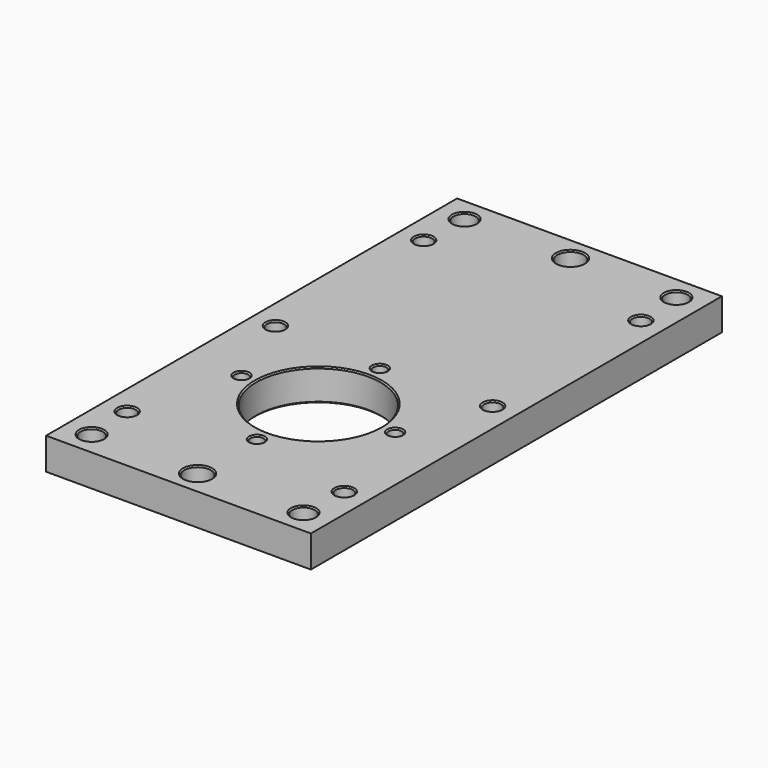
from build123d import *

# Parameters (mm, degrees)
F0_W     = 100
F0_H     = 194
F0_R     = 4.25
F0_R_2   = 2.5
F0_R_3   = 5
F0_R_4   = 23.5
F1_DEPTH = 12
F2_SIZE  = 0.5
F3_R     = 3.25
F4_DEPTH = 25
F5_SIZE  = 0.5


with BuildPart() as f1:
    # F0 (on Top) → F1 (new body)
    with BuildSketch(Plane.XY):
        with Locations((0, 31)):
            Rectangle(F0_W, F0_H)
        with Locations((-40, -57)):
            Circle(F0_R, mode=Mode.SUBTRACT)
        with Locations((-29, 0)):
            Circle(F0_R_2, mode=Mode.SUBTRACT)
        with Locations((0, -57)):
            Circle(F0_R_3, mode=Mode.SUBTRACT)
        with Locations((0, -29)):
            Circle(F0_R_2, mode=Mode.SUBTRACT)
        with Locations((40, -57)):
            Circle(F0_R, mode=Mode.SUBTRACT)
        Circle(F0_R_4, mode=Mode.SUBTRACT)
        with Locations((0, 29)):
            Circle(F0_R_2, mode=Mode.SUBTRACT)
        with Locations((29, 0)):
            Circle(F0_R_2, mode=Mode.SUBTRACT)
        with Locations((-40, 119)):
            Circle(F0_R, mode=Mode.SUBTRACT)
        with Locations((0, 119)):
            Circle(F0_R_3, mode=Mode.SUBTRACT)
        with Locations((40, 119)):
            Circle(F0_R, mode=Mode.SUBTRACT)
    extrude(amount=F1_DEPTH)

    # F2
    f2_edges = [f1.edges().sort_by_distance(p)[0] for p in [
        (-35.75, 119, 6),
        (-44.25, 119, 0),
        (-44.25, 119, 12),
        (5, 119, 6),
        (-5, 119, 0),
        (-5, 119, 12),
        (44.25, 119, 6),
        (35.75, 119, 0),
        (35.75, 119, 12),
        (23.5, 0, 6),
        (-23.5, 0, 0),
        (-23.5, 0, 12),
        (-35.75, -57, 6),
        (-44.25, -57, 0),
        (-44.25, -57, 12),
        (5, -57, 6),
        (-5, -57, 0),
        (-5, -57, 12),
        (44.25, -57, 6),
        (35.75, -57, 0),
        (35.75, -57, 12),
        (2.5, 29, 6),
        (-2.5, 29, 0),
        (-2.5, 29, 12),
        (-26.5, 0, 6),
        (-31.5, 0, 0),
        (-31.5, 0, 12),
        (2.5, -29, 6),
        (-2.5, -29, 0),
        (-2.5, -29, 12),
        (31.5, 0, 6),
        (26.5, 0, 0),
        (26.5, 0, 12),
    ]]
    chamfer(f2_edges, length=F2_SIZE)

    # F3 (on face) → F4 (cut)
    with BuildSketch(Plane.XY.offset(12)):
        with Locations((-41, 31)):
            Circle(F3_R)
        with Locations((41, 31)):
            Circle(F3_R)
        with Locations((41, 101)):
            Circle(F3_R)
        with Locations((-41, 101)):
            Circle(F3_R)
        with Locations((41, -39)):
            Circle(F3_R)
        with Locations((-41, -39)):
            Circle(F3_R)
    extrude(amount=-F4_DEPTH, mode=Mode.SUBTRACT)

    # F5
    f5_edges = [f1.edges().sort_by_distance(p)[0] for p in [
        (-44.25, 101, 12),
        (-37.75, 101, 6),
        (-44.25, 101, 0),
        (37.75, 101, 12),
        (44.25, 101, 6),
        (37.75, 101, 0),
        (37.75, 31, 12),
        (44.25, 31, 6),
        (37.75, 31, 0),
        (-44.25, 31, 12),
        (-37.75, 31, 6),
        (-44.25, 31, 0),
        (-44.25, -39, 12),
        (-37.75, -39, 6),
        (-44.25, -39, 0),
        (37.75, -39, 12),
        (44.25, -39, 6),
        (37.75, -39, 0),
    ]]
    chamfer(f5_edges, length=F5_SIZE)


solid = f1.part
